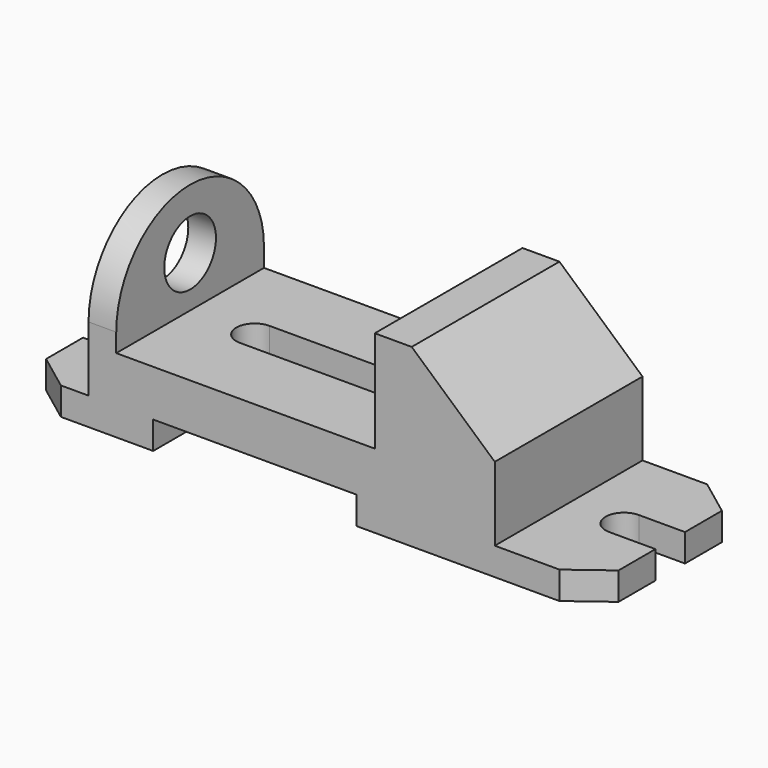
from build123d import *

# Parameters (mm, degrees)
F1_DEPTH  = 10
F3_W      = 4
F3_H      = 4
F4_DEPTH  = 3
F5_DEPTH  = 3
F7_DEPTH  = 3
F8_DEPTH  = 3
F9_W      = 16
F9_H      = 4
F10_DEPTH = 6
F11_DEPTH = 3
F12_R     = 3.5
F13_DEPTH = 3


with BuildPart() as f1:
    # F0 (on Front) → F1 (new body, symmetric)
    with BuildSketch(Plane.XZ):
        Polygon((-17.8393546607, 3), (-17.8393546607, 0), (-7.8393546607, 0), (-7.8393546607, 3), (14.1606453393, 3), (14.1606453393, 0), (36.1606453393, 0), (36.1606453393, 3), (29.1606453393, 3), (29.1606453393, 11), (20.1606453393, 19.0285857916), (16.1606453393, 19.0285857916), (16.1606453393, 8.0285857916), (-11.8393546607, 8.0285857916), (-11.8393546607, 10.0285857916), (-14.8393546607, 10.0285857916), (-14.8393546607, 3), align=None)
    extrude(amount=F1_DEPTH, both=True)

    # F3 (on face) → F4 (join)
    with BuildSketch(Plane.XY.offset(3)):
        Polygon((40.1606453393, 7), (36.1606453393, 10), (36.1606453393, 2), (40.1606453393, 2), align=None)
        Polygon((40.1606453393, 10), (36.1606453393, 10), (40.1606453393, 7), align=None)
        with Locations((38.1606453393, 0)):
            Rectangle(F3_W, F3_H)
        with BuildLine():
            Line((36.1606453393, -2), (36.1606453393, 2))
            Line((36.1606453393, 2), (35.1606453393, 2))
            ThreePointArc((35.1606453393, 2), (33.1606453393, 0), (35.1606453393, -2))
            Line((35.1606453393, -2), (36.1606453393, -2))
        make_face()
        Polygon((40.1606453393, -2), (36.1606453393, -2), (36.1606453393, -10), (40.1606453393, -7), align=None)
        Polygon((40.1606453393, -7), (36.1606453393, -10), (40.1606453393, -10), align=None)
    extrude(amount=-F4_DEPTH)

    # F3 (on face) → F5 (cut)
    with BuildSketch(Plane.XY.offset(3)):
        with Locations((38.1606453393, 0)):
            Rectangle(F3_W, F3_H)
        with BuildLine():
            Line((36.1606453393, -2), (36.1606453393, 2))
            Line((36.1606453393, 2), (35.1606453393, 2))
            ThreePointArc((35.1606453393, 2), (33.1606453393, 0), (35.1606453393, -2))
            Line((35.1606453393, -2), (36.1606453393, -2))
        make_face()
        Polygon((40.1606453393, -7), (36.1606453393, -10), (40.1606453393, -10), align=None)
        Polygon((40.1606453393, 10), (36.1606453393, 10), (40.1606453393, 7), align=None)
    extrude(amount=-F5_DEPTH, mode=Mode.SUBTRACT)

    # F6 (on face) → F7 (join)
    with BuildSketch(Plane.XY.offset(3)):
        Polygon((-17.8393546607, 2), (-17.8393546607, 10), (-21.8393546607, 7), (-21.8393546607, 2), align=None)
        Polygon((-17.8393546607, -10), (-17.8393546607, -2), (-21.8393546607, -2), (-21.8393546607, -7), align=None)
    extrude(amount=-F7_DEPTH)

    # F6 (on face) → F8 (cut)
    with BuildSketch(Plane.XY.offset(3)):
        with BuildLine():
            ThreePointArc((-17.8393546607, -2), (-15.8393546607, 0), (-17.8393546607, 2))
            Line((-17.8393546607, 2), (-17.8393546607, -2))
        make_face()
    extrude(amount=-F8_DEPTH, mode=Mode.SUBTRACT)

    # F9 (on face) → F10 (cut)
    with BuildSketch(Plane(origin=(0, 0, 3), x_dir=(1, 0, 0), z_dir=(0, 0, -1))):
        with Locations((3.1606453393, 0)):
            Rectangle(F9_W, F9_H)
        with BuildLine():
            Line((-4.8393546607, -2), (-4.8393546607, 2))
            ThreePointArc((-4.8393546607, 2), (-6.8393546607, 0), (-4.8393546607, -2))
        make_face()
        with BuildLine():
            ThreePointArc((11.1606453393, -2), (13.1606453393, 0), (11.1606453393, 2))
            Line((11.1606453393, 2), (11.1606453393, -2))
        make_face()
    extrude(amount=-F10_DEPTH, mode=Mode.SUBTRACT)

    # F2 (on face) → F11 (join)
    with BuildSketch(Plane.YZ.offset(-11.8393546607)):
        with BuildLine():
            Line((-10, 10.0285857916), (10, 10.0285857916))
            ThreePointArc((10, 10.0285857916), (0, 20.0285857916), (-10, 10.0285857916))
        make_face()
    extrude(amount=-F11_DEPTH)

    # F12 (on face) → F13 (cut)
    with BuildSketch(Plane.YZ.offset(-11.8393546607)):
        with Locations((0, 13.5285857916)):
            Circle(F12_R)
    extrude(amount=-F13_DEPTH, mode=Mode.SUBTRACT)


solid = f1.part
